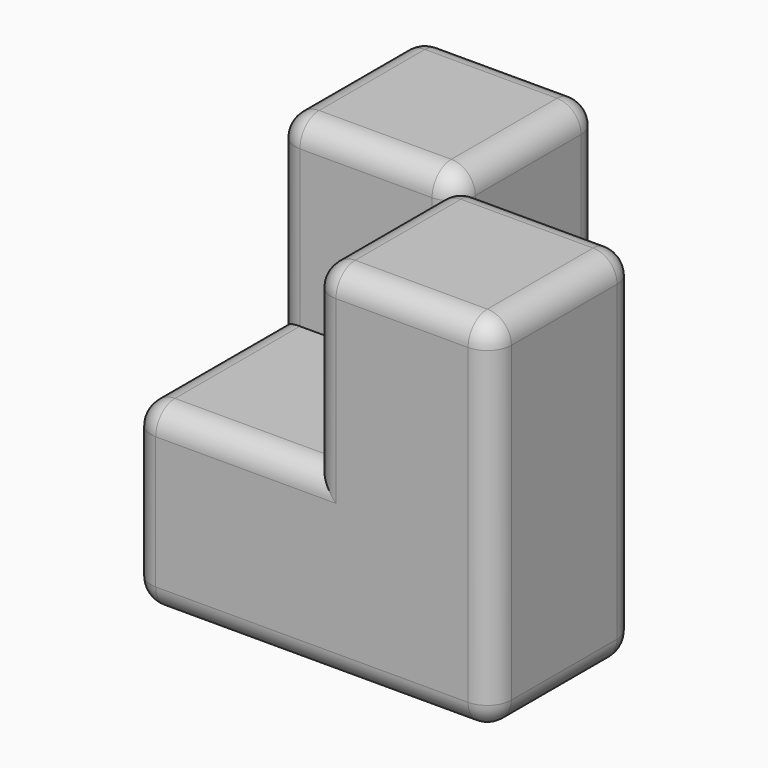
from build123d import *

# Parameters (mm, degrees)
F1_DEPTH = 19.05
F2_W     = 19.05
F2_H     = 19.05
F3_DEPTH = 19.05
F4_R     = 2.54
F5_DEPTH = 19.05
F6_R     = 2.54


with BuildPart() as f1:
    # F0 (on Top) → F1 (new body)
    with BuildSketch(Plane.XY):
        Polygon((0, 38.1), (0, 0), (38.1, 0), (38.1, 19.05), (19.05, 19.05), (19.05, 38.1), align=None)
    extrude(amount=F1_DEPTH)

    # F2 (on face) → F3 (join)
    with BuildSketch(Plane.XY.offset(19.05)):
        with Locations((28.575, 9.525)):
            Rectangle(F2_W, F2_H)
    extrude(amount=F3_DEPTH)

    # F4
    f4_edges = [f1.edges().sort_by_distance(p)[0] for p in [
        (19.05, 19.05, 28.575),
    ]]
    fillet(f4_edges, radius=F4_R)

    # F2 (on face) → F5 (join)
    with BuildSketch(Plane.XY.offset(19.05)):
        with Locations((9.525, 28.575)):
            Rectangle(F2_W, F2_H)
    extrude(amount=F5_DEPTH)

    # F6
    f6_edges = [f1.edges().sort_by_distance(p)[0] for p in [
        (38.1, 0, 19.05),
        (38.1, 9.525, 38.1),
        (38.1, 19.05, 19.05),
        (38.1, 9.525, 0),
        (19.05, 38.1, 19.05),
        (9.525, 38.1, 38.1),
        (0, 38.1, 19.05),
        (9.525, 38.1, 0),
        (0, 28.575, 38.1),
        (9.525, 19.05, 38.1),
        (19.05, 28.575, 38.1),
        (29.845, 19.05, 38.1),
        (19.793949, 18.306051, 38.1),
        (19.05, 8.255, 38.1),
        (28.575, 0, 38.1),
        (0, 19.05, 28.575),
        (0, 9.525, 19.05),
        (0, 0, 9.525),
        (0, 19.05, 0),
        (9.525, 0, 19.05),
        (19.05, 0, 28.575),
        (19.05, 0, 0),
        (28.575, 19.05, 0),
        (19.05, 28.575, 0),
        (19.05, 19.05, 28.575),
    ]]
    fillet(f6_edges, radius=F6_R)


solid = f1.part
